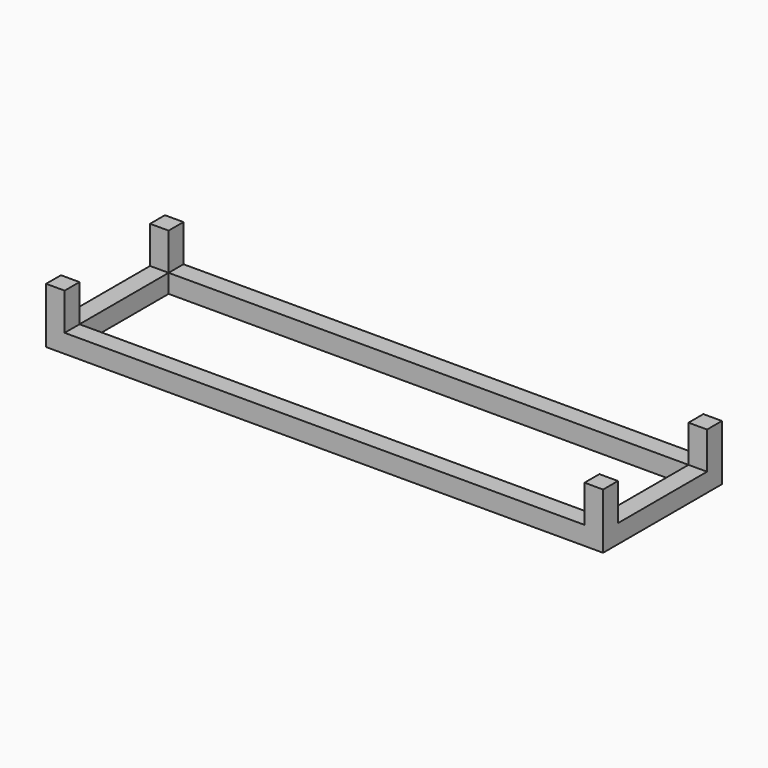
from build123d import *

# Parameters (mm, degrees)
F0_W     = 1500
F0_H     = 400
F0_W_2   = 1400
F0_H_2   = 300
F1_DEPTH = 50
F2_W     = 50
F2_H     = 50
F3_DEPTH = 100


with BuildPart() as f1:
    # F0 (on Top) → F1 (new body)
    with BuildSketch(Plane.XY):
        with Locations((750, 200)):
            Rectangle(F0_W, F0_H)
        with Locations((750, 200)):
            Rectangle(F0_W_2, F0_H_2, mode=Mode.SUBTRACT)
    extrude(amount=F1_DEPTH)

    # F2 (on face) → F3 (join)
    with BuildSketch(Plane.XY.offset(50)):
        with Locations((25, 375)):
            Rectangle(F2_W, F2_H)
        with Locations((25, 25)):
            Rectangle(F2_W, F2_H)
        with Locations((1475, 375)):
            Rectangle(F2_W, F2_H)
        with Locations((1475, 25)):
            Rectangle(F2_W, F2_H)
    extrude(amount=F3_DEPTH)


solid = f1.part
